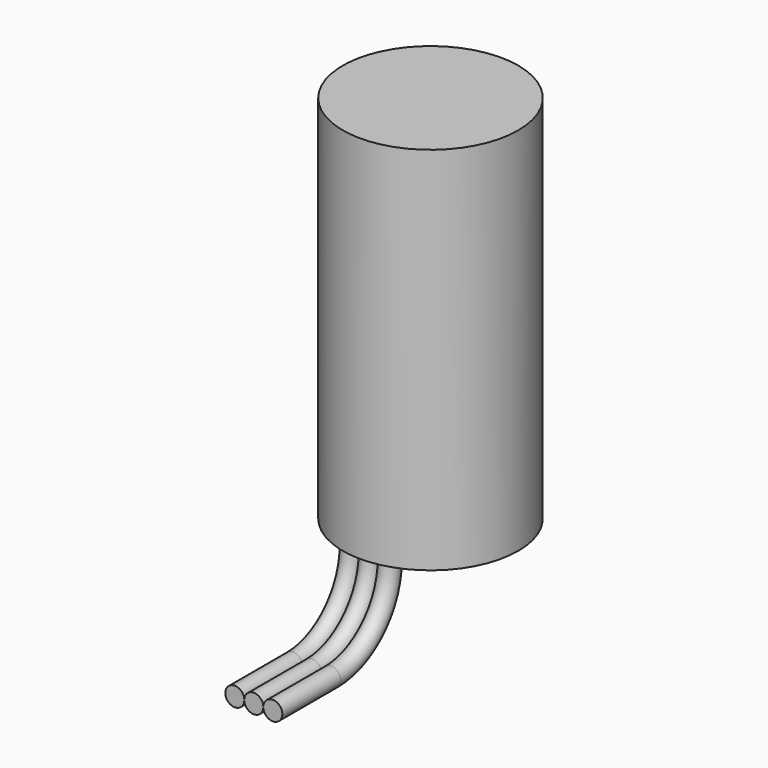
from build123d import *

# Parameters (mm, degrees)
F0_R     = 6
F1_DEPTH = 25.32
F3_ANGLE = 90
F2_R     = 0.65
F4_DEPTH = 5
F5_DEPTH = 5
F6_DEPTH = 5


with BuildPart() as f1:
    # F0 (on Top) → F1 (new body)
    with BuildSketch(Plane.XY):
        Circle(F0_R)
    extrude(amount=F1_DEPTH)


with BuildPart() as f3:
    # F2 (on face) → F3 (revolve)
    with BuildSketch(Plane(origin=(0, 0, 0), x_dir=(1, 0, 0), z_dir=(0, 0, -1))):
        with BuildLine():
            ThreePointArc((-0.65, 5.106464261), (0, 4.456464261), (0.65, 5.106464261))
            ThreePointArc((0.65, 5.106464261), (0, 5.756464261), (-0.65, 5.106464261))
        make_face()
    revolve(axis=Axis((1.5812861521, -10.106464261, 0), (-1, 0, 0)), revolution_arc=F3_ANGLE)



with BuildPart() as f3b:
    # F2 (on face) → F3, piece 2 (revolve)
    with BuildSketch(Plane(origin=(0, 0, 0), x_dir=(1, 0, 0), z_dir=(0, 0, -1))):
        with Locations((-1.3, 5.106464261)):
            Circle(F2_R)
    revolve(axis=Axis((1.5812861521, -10.106464261, 0), (-1, 0, 0)), revolution_arc=F3_ANGLE)


with BuildPart() as f3c:
    # F2 (on face) → F3, piece 3 (revolve)
    with BuildSketch(Plane(origin=(0, 0, 0), x_dir=(1, 0, 0), z_dir=(0, 0, -1))):
        with BuildLine():
            ThreePointArc((1.95, 5.106464261), (1.3, 5.756464261), (0.65, 5.106464261))
            ThreePointArc((0.65, 5.106464261), (1.3, 4.456464261), (1.95, 5.106464261))
        make_face()
    revolve(axis=Axis((1.5812861521, -10.106464261, 0), (-1, 0, 0)), revolution_arc=F3_ANGLE)


with BuildPart() as f3_1:
    add(f3.part)
    # F4 (add): a face of the model
    f4_faces = [f3b.part.faces().sort_by_distance(p)[0] for p in [
        (-1.3, -10.106464261, -5),
    ]]

    add(f3b.part)  # F4 merges F3b
    extrude(f4_faces, amount=F4_DEPTH)


with BuildPart() as f5:
    # F5 (new): a face of the model
    f5_faces = [f3_1.part.faces().sort_by_distance(p)[0] for p in [
        (0, -10.106464261, -5),
    ]]
    extrude(f5_faces, amount=F5_DEPTH)


with BuildPart() as f6:
    # F6 (new): a face of the model
    f6_faces = [f3c.part.faces().sort_by_distance(p)[0] for p in [
        (1.3, -10.106464261, -5),
    ]]
    extrude(f6_faces, amount=F6_DEPTH)


solid = Compound([f1.part, f3c.part, f3_1.part, f5.part, f6.part])
